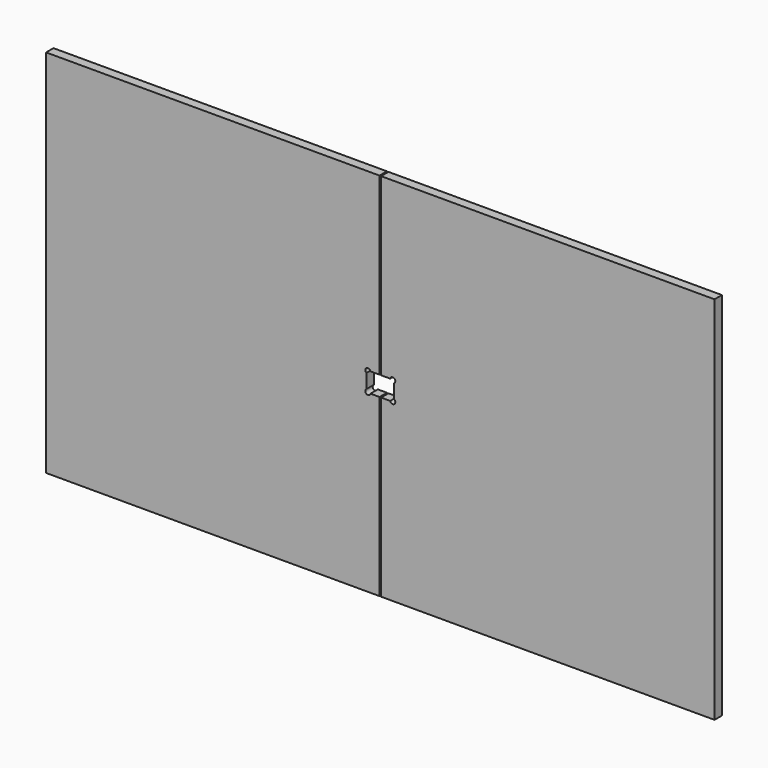
from build123d import *

# Parameters (mm, degrees)
F1_DEPTH = 25


with BuildPart() as f1:
    # F0 (on Front) → F1 (new body)
    with BuildSketch(Plane.XZ):
        with BuildLine():
            Line((900.710799, 500), (0, 500))
            Line((0, 500), (0, 26.5))
            Line((0, 26.5), (24.662603, 26.5))
            ThreePointArc((24.662603, 26.5), (35.390196, 30.819482), (35.5, 19.255437))
            Line((35.5, 19.255437), (35.5, -19.255437))
            ThreePointArc((35.5, -19.255437), (35.390196, -30.819482), (24.662603, -26.5))
            Line((24.662603, -26.5), (0, -26.5))
            Line((0, -26.5), (0, -500))
            Line((0, -500), (900.710799, -500))
            Line((900.710799, -500), (900.710799, 500))
        make_face()
    extrude(amount=F1_DEPTH)


with BuildPart() as f3_1:
    # F3: instance of F1
    add(f1.part.mirror(Plane(origin=(-2, -12.5, 263.25), x_dir=(0, -1, 0), z_dir=(-1, 0, 0))))


solid = Compound([f1.part, f3_1.part])
